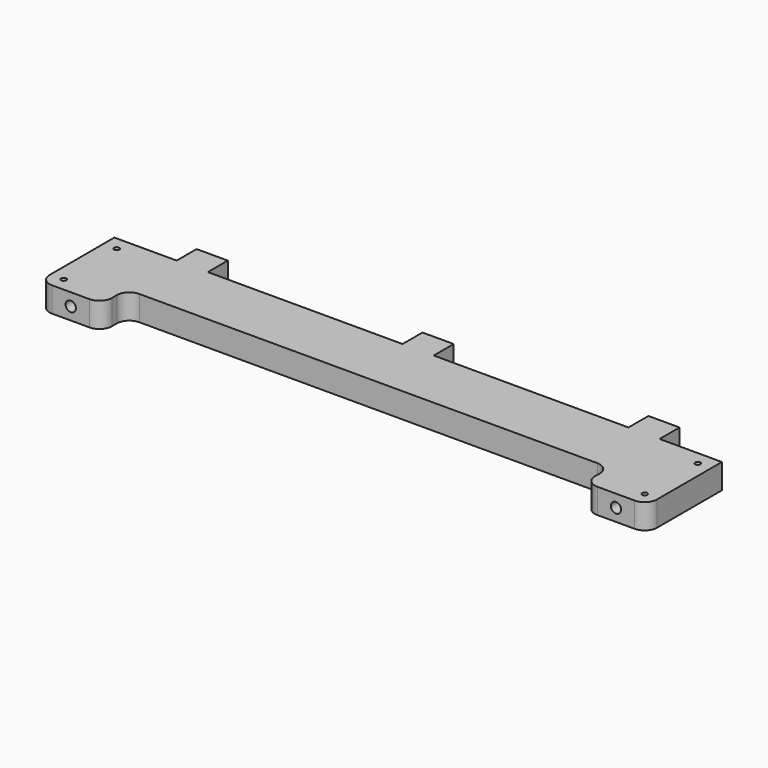
from build123d import *

# Parameters (mm, degrees)
F0_W     = 40
F0_H     = 20
F1_DEPTH = 16
F2_W     = 20
F2_H     = 16
F3_DEPTH = 16
F5_D     = 6.6
F5_DEPTH = 30
F5_TIP   = 1.9828400428
F6_R     = 8
F8_D     = 3.3
F8_DEPTH = 20
F8_TIP   = 0.9914200214
F10_D    = 3.3


with BuildPart() as f1:
    # F0 (on Top) → F1 (new body)
    with BuildSketch(Plane.XY):
        Polygon((195, -20), (195, 20), (-195, 20), (-195, -20), (-155, -20), (155, -20), align=None)
        with Locations((-175, -30)):
            Rectangle(F0_W, F0_H)
        with Locations((175, -30)):
            Rectangle(F0_W, F0_H)
    extrude(amount=F1_DEPTH)

    # F2 (on face) → F3 (join, through all)
    with BuildSketch(Plane.XY.offset(16)):
        with Locations((145, 28)):
            Rectangle(F2_W, F2_H)
        with Locations((0, 28)):
            Rectangle(F2_W, F2_H)
        with Locations((-145, 28)):
            Rectangle(F2_W, F2_H)
    extrude(amount=-F3_DEPTH)

    # F5
    with Locations(Plane.XZ.offset(40)):
        with Locations((-175, 8), (175, 8)):
            Hole(F5_D / 2, depth=F5_DEPTH)
            with Locations((0, 0, -(F5_DEPTH + F5_TIP / 2))):  # 118° drill point
                Cone(0, F5_D / 2, F5_TIP, mode=Mode.SUBTRACT)

    # F6
    f6_edges = [f1.edges().sort_by_distance(p)[0] for p in [
        (-155, -40, 8),
        (-155, -20, 8),
        (-195, -40, 8),
        (195, -40, 8),
        (155, -40, 8),
        (155, -20, 8),
    ]]
    fillet(f6_edges, radius=F6_R)

    # F8
    with Locations(Plane(origin=(0, 20, 0), x_dir=(-1, 0, 0), z_dir=(0, 1, 0))):
        with Locations((95, 8), (-95, 8)):
            Hole(F8_D / 2, depth=F8_DEPTH)
            with Locations((0, 0, -(F8_DEPTH + F8_TIP / 2))):  # 118° drill point
                Cone(0, F8_D / 2, F8_TIP, mode=Mode.SUBTRACT)

    # F10 (through all)
    with Locations(Plane.XY.offset(16)):
        with Locations((-186.5, 11.25), (-186.5, -31.25), (186.5, 11.25), (186.5, -31.25)):
            Hole(F10_D / 2)


solid = f1.part
